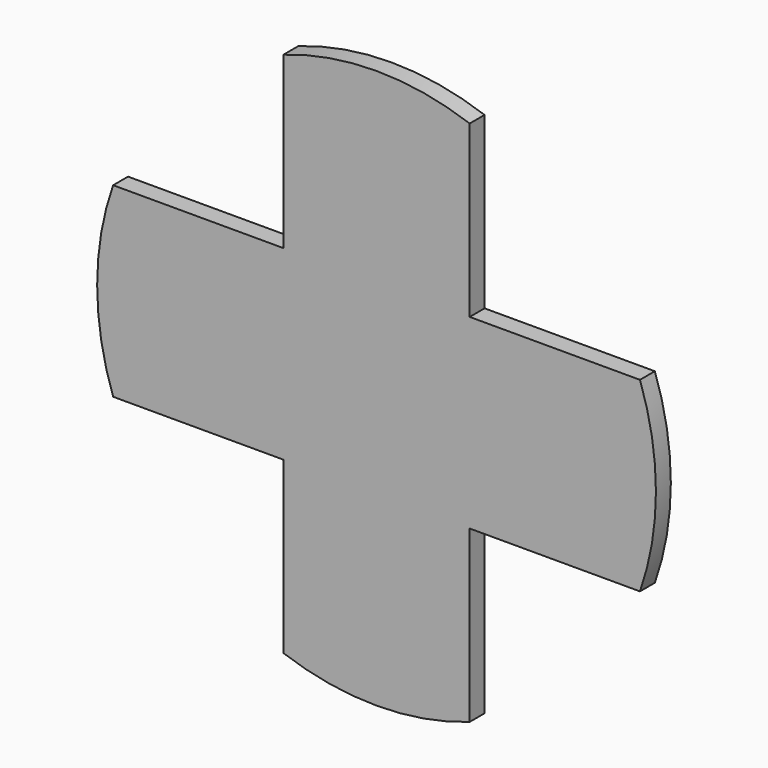
from build123d import *

# Parameters (mm, degrees)
F0_R     = 0.1905
F1_DEPTH = 0.254
F2_DEPTH = 0.508


with BuildPart() as f1:
    # F0 (on Front) → F1 (new body)
    with BuildSketch(Plane.XZ):
        with BuildLine():
            Line((-1.27, 1.27), (-3.592102, 1.27))
            ThreePointArc((-3.592102, 1.27), (-3.81, 0), (-3.592102, -1.27))
            Line((-3.592102, -1.27), (-1.27, -1.27))
            Line((-1.27, -1.27), (-1.27, -3.592102))
            ThreePointArc((-1.27, -3.592102), (0, -3.81), (1.27, -3.592102))
            Line((1.27, -3.592102), (1.27, -1.27))
            Line((1.27, -1.27), (3.592102, -1.27))
            ThreePointArc((3.592102, -1.27), (3.81, 0), (3.592102, 1.27))
            Line((3.592102, 1.27), (1.27, 1.27))
            Line((1.27, 1.27), (1.27, 3.592102))
            ThreePointArc((1.27, 3.592102), (0, 3.81), (-1.27, 3.592102))
            Line((-1.27, 3.592102), (-1.27, 1.27))
        make_face()
        Circle(F0_R, mode=Mode.SUBTRACT)
        Circle(F0_R)
    extrude(amount=F1_DEPTH)

    # F0 (on Front) → F2 (join)
    with BuildSketch(Plane.XZ):
        Circle(F0_R)
    extrude(amount=-F2_DEPTH)


solid = f1.part
